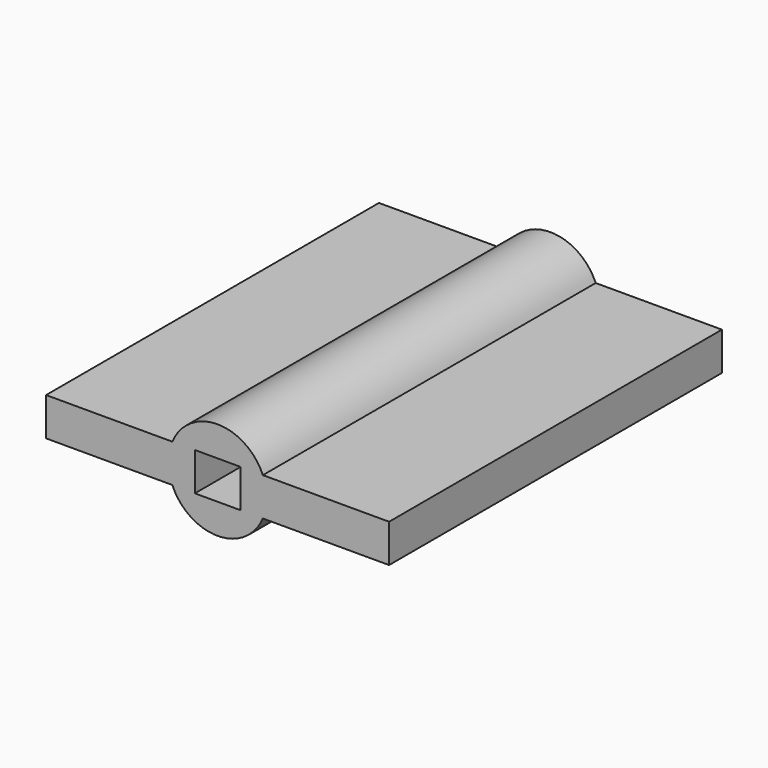
from build123d import *

# Parameters (mm, degrees)
F0_R     = 17.1435260445
F1_DEPTH = 145.1113671064
F2_W     = 15.8428698778
F2_H     = 13.308968395
F3_DEPTH = 239.869505167
F4_DEPTH = 51.8945604563
F5_DEPTH = 51.8922


with BuildPart() as f1:
    # F0 (on Front) → F1 (new body)
    with BuildSketch(Plane.XZ):
        Circle(F0_R)
    extrude(amount=F1_DEPTH)

    # F2 (on Front) → F3 (cut)
    with BuildSketch(Plane.XZ):
        Rectangle(F2_W, F2_H)
    extrude(amount=F3_DEPTH, mode=Mode.SUBTRACT)

    # F4 (add): a face of the model
    f4_faces = [f1.faces().sort_by_distance(p)[0] for p in [
        (-7.9214349389, -72.5556835532, 0),
    ]]
    extrude(f4_faces, amount=-F4_DEPTH)

    # F5 (add): a face of the model
    f5_faces = [f1.faces().sort_by_distance(p)[0] for p in [
        (7.9214349389, -72.5556835532, 0),
    ]]
    extrude(f5_faces, amount=-F5_DEPTH)


solid = f1.part
